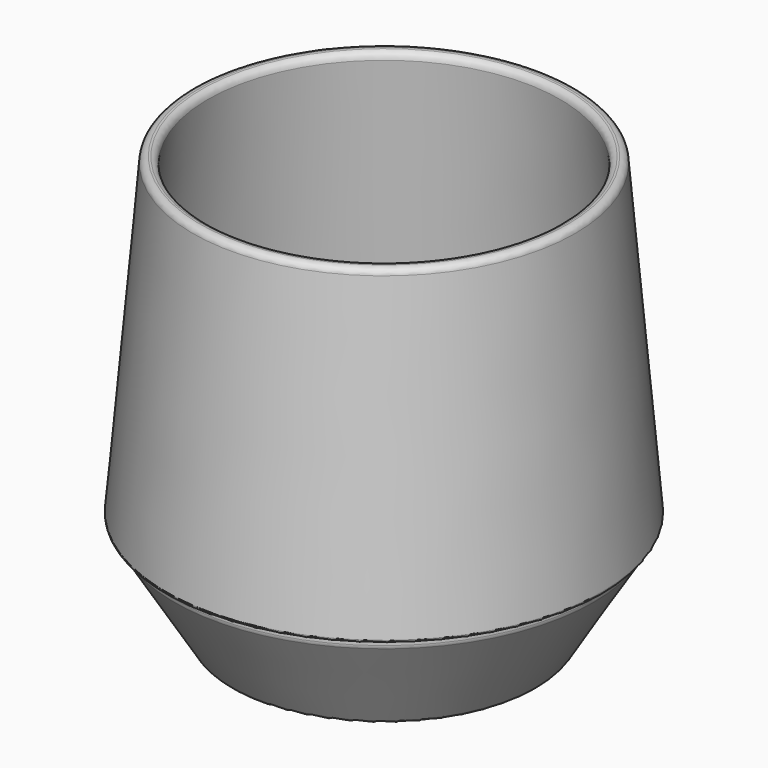
from build123d import *

# Parameters (mm, degrees)
F2_R = 1.3
F3_R = 0.5


with BuildPart() as f1:
    # F0 (on Front) → F1 (revolve)
    with BuildSketch(Plane.XZ):
        Polygon((0, 6), (0, 3), (24, 3), (27, 0), (30, 0), (42, 19.5), (42, 21), (43.5, 21), (37.988214, 84), (34.99963, 83.738533), (40.353114, 22.547936), (30.169768, 6), align=None)
    revolve(axis=Axis((0, 0, 42), (0, 0, 1)))

    # F2
    f2_edges = [f1.edges().sort_by_distance(p)[0] for p in [
        (-34.99963, 0, 83.738533),
        (-37.988214, 0, 84),
        (-40.353114, 0, 22.547936),
        (-30.169768, 0, 6),
        (-24, 0, 3),
        (-27, 0, 0),
        (-30, 0, 0),
        (-42, 0, 19.5),
    ]]
    fillet(f2_edges, radius=F2_R)

    # F3
    f3_edges = [f1.edges().sort_by_distance(p)[0] for p in [
        (-42, 0, 21),
        (-43.5, 0, 21),
    ]]
    fillet(f3_edges, radius=F3_R)


solid = f1.part
